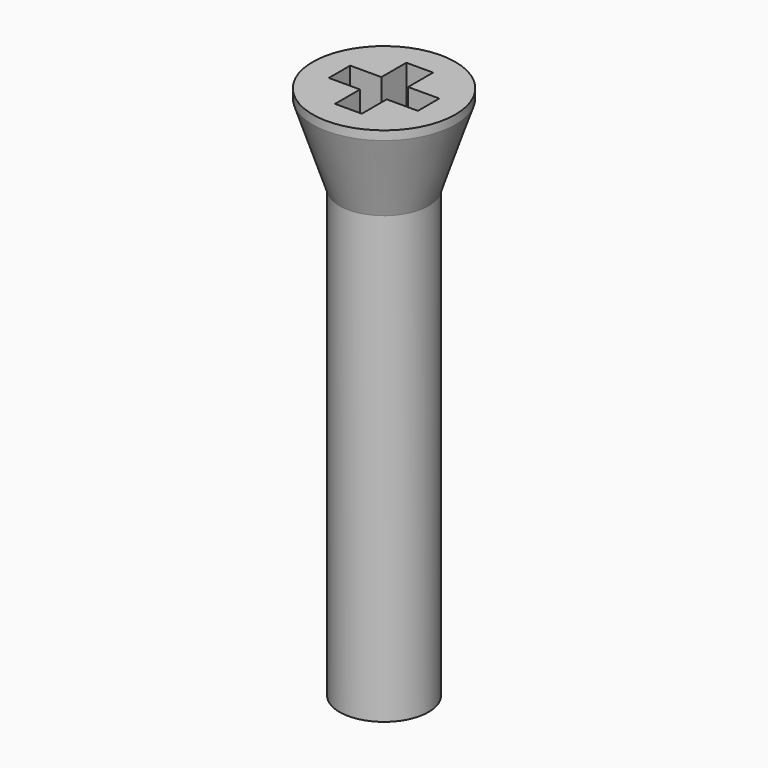
from build123d import *

# Parameters (mm, degrees)
F0_R     = 4
F1_DEPTH = 5
F2_R     = 2.5
F3_DEPTH = 25
F6_W     = 1.75
F6_H     = 1.5
F6_W_2   = 1.5
F6_H_2   = 1.75
F7_DEPTH = 3
F9_ANGLE = 180


with BuildPart() as f1:
    # F0 (on Top) → F1 (new body)
    with BuildSketch(Plane.XY):
        Circle(F0_R)
    extrude(amount=F1_DEPTH)

    # F2 (on face) → F3 (join)
    with BuildSketch(Plane.XY.offset(5)):
        Circle(F2_R)
    extrude(amount=F3_DEPTH)

    # F4 (on Front) → F5 (revolve, cut)
    with BuildSketch(Plane.XZ):
        Polygon((-4, 0.5), (-2.5, 5), (-4, 5), align=None)
    revolve(axis=Axis((0, 0, 2.5), (0, 0, -1)), mode=Mode.SUBTRACT)

    # F6 (on face) → F7 (cut)
    with BuildSketch(Plane(origin=(0, 0, 0), x_dir=(1, 0, 0), z_dir=(0, 0, -1))):
        with Locations((1.625, 0)):
            Rectangle(F6_W, F6_H)
        Rectangle(F6_W_2, F6_H)
        with Locations((0, 1.625)):
            Rectangle(F6_W_2, F6_H_2)
        with Locations((-1.625, 0)):
            Rectangle(F6_W, F6_H)
        with Locations((0, -1.625)):
            Rectangle(F6_W_2, F6_H_2)
    extrude(amount=-F7_DEPTH, mode=Mode.SUBTRACT)


with BuildPart() as f1_1:
    # F9: moved
    add(f1.part.rotate(Axis((9.6651110798, 0, 0), (1, 0, 0)), F9_ANGLE))


solid = f1_1.part
